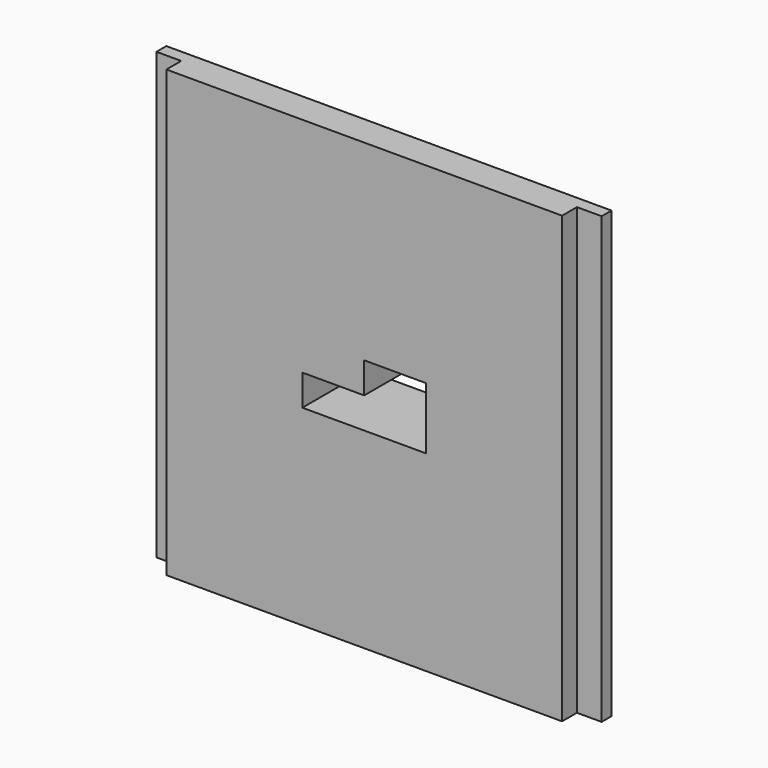
from build123d import *

# Parameters (mm, degrees)
SKETCH021_W                    = 32
SKETCH021_H                    = 36
EXTRUDE019_DEPTH               = 1.5
SKETCH020_W                    = 36
SKETCH020_H                    = 36
EXTRUDE018_DEPTH               = 1
FUSION011_PLACEMENT_ANGLE      = 90
BASEFEATURE002_PLACEMENT_ANGLE = 90
POCKET002_DEPTH                = 5
PAD_DEPTH                      = 6.5
POCKET007_DEPTH                = 6.5
BODY003_PLACEMENT_ANGLE        = 90


with BuildPart() as extrude019:
    # Sketch021 (on Face6 of Extrude018) → Extrude019 (new body)
    with BuildSketch(Plane.XY.offset(1)):
        Rectangle(SKETCH021_W, SKETCH021_H)
    extrude(amount=EXTRUDE019_DEPTH)


with BuildPart() as body003:
    # Sketch020 → Extrude018 (new body)
    with BuildSketch(Plane.XY):
        Rectangle(SKETCH020_W, SKETCH020_H)
    extrude(amount=EXTRUDE018_DEPTH)

    # Fusion011: union Extrude019
    add(extrude019.part)


with BuildPart() as body003_1:
    # Fusion011 placement: moved
    add(body003.part.moved(Location((0, -17.5, 20))).rotate(Axis((0, -17.5, 20), (1, 0, 0)), FUSION011_PLACEMENT_ANGLE))


with BuildPart() as body003_2:
    # BaseFeature002 placement: moved
    add(body003_1.part.moved(Location((0, -20, -17.5))).rotate(Axis((0, -20, -17.5), (-1, 0, 0)), BASEFEATURE002_PLACEMENT_ANGLE))

    # Sketch026 (on Face8 of BaseFeature002) → Pocket002 (cut)
    with BuildSketch(Plane.XY.offset(2.5)):
        Polygon((0, 0), (0, 2.5), (5, 2.5), (5, -2.5), (-5, -2.5), (-5, 0), align=None)
    extrude(amount=-POCKET002_DEPTH, mode=Mode.SUBTRACT)

    # Sketch046 (on Face8 of Pocket002) → Pad (join)
    with BuildSketch(Plane.XY.offset(2.5)):
        Polygon((-2, 4.5), (7, 4.5), (7, -4.5), (-7, -4.5), (-7, 2), (-2, 2), align=None)
    extrude(amount=-PAD_DEPTH)

    # Sketch026 (on Face8 of BaseFeature002) → Pocket007 (cut)
    with BuildSketch(Plane.XY.offset(2.5)):
        Polygon((0, 0), (0, 2.5), (5, 2.5), (5, -2.5), (-5, -2.5), (-5, 0), align=None)
    extrude(amount=-POCKET007_DEPTH, mode=Mode.SUBTRACT)


with BuildPart() as body003_3:
    # Body003 placement: moved
    add(body003_2.part.moved(Location((0, -17.5, 20))).rotate(Axis((0, -17.5, 20), (1, 0, 0)), BODY003_PLACEMENT_ANGLE))


solid = body003_3.part
